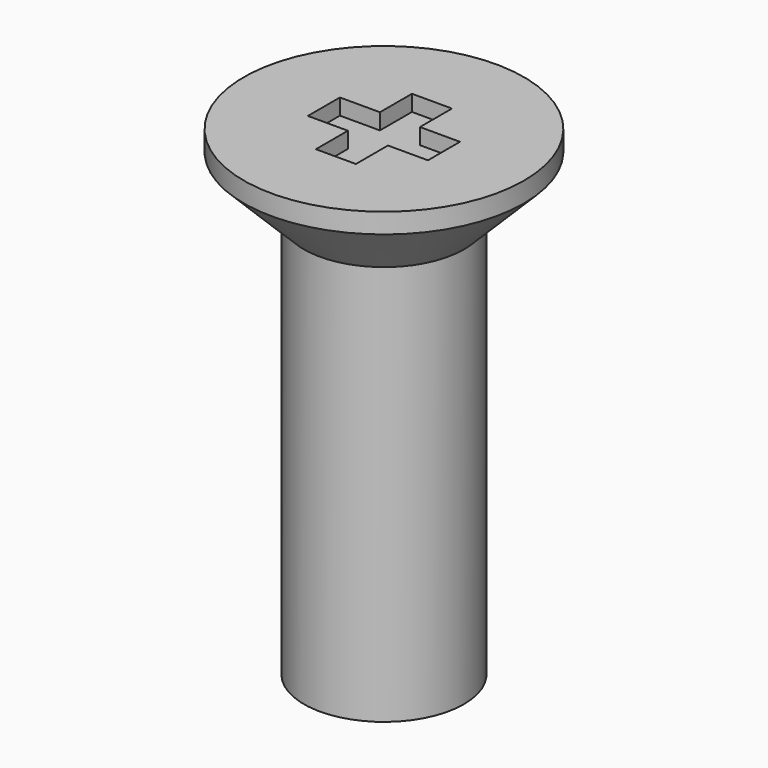
from build123d import *

# Parameters (mm, degrees)
F0_R     = 1.75
F1_DEPTH = 1
F2_SIZE  = 0.75
F3_DEPTH = 5
F4_W     = 0.5
F4_H     = 0.5
F5_DEPTH = 0.2


with BuildPart() as f1:
    # F0 (on Top) → F1 (new body)
    with BuildSketch(Plane.XY):
        Circle(F0_R)
    extrude(amount=F1_DEPTH)

    # F2
    f2_edges = [f1.edges().sort_by_distance(p)[0] for p in [
        (-1.75, 0, 0),
    ]]
    chamfer(f2_edges, length=F2_SIZE)

    # F3 (add): a face of the model
    f3_faces = [f1.faces().sort_by_distance(p)[0] for p in [
        (0, 0, 0),
    ]]
    extrude(f3_faces, amount=F3_DEPTH)

    # F4 (on face) → F5 (cut)
    with BuildSketch(Plane.XY.offset(1)):
        with Locations((0, 0.5)):
            Rectangle(F4_W, F4_H)
        Rectangle(F4_W, F4_H)
        with Locations((0.5, 0)):
            Rectangle(F4_W, F4_H)
        with Locations((0, -0.5)):
            Rectangle(F4_W, F4_H)
        with Locations((-0.5, 0)):
            Rectangle(F4_W, F4_H)
    extrude(amount=-F5_DEPTH, mode=Mode.SUBTRACT)


solid = f1.part
